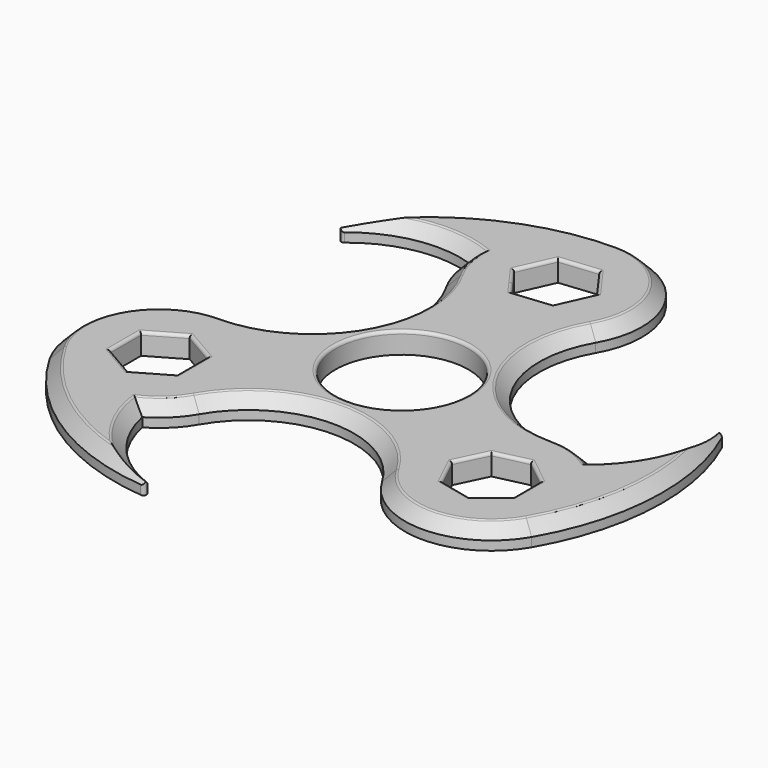
from build123d import *

# Parameters (mm, degrees)
F0_R     = 11
F1_DEPTH = 3.5
F2_SIZE  = 2
F3_R     = 0.5


with BuildPart() as f1:
    # F0 (on Top) → F1 (new body)
    with BuildSketch(Plane.XY):
        with BuildLine():
            ThreePointArc((26.50369074, -1.0794828604), (11.3807221264, 7.6517671396), (11.3807221264, 25.1142671396))
            ThreePointArc((11.3807221264, 25.1142671396), (11.3807221264, 39.4017671396), (-0.9926158302, 46.5455171396))
            ThreePointArc((-0.9926158302, 46.5455171396), (-21.8494165238, 40.7780010616), (-36.7798490863, 25.1142671396))
            ThreePointArc((-36.7798490863, 25.1142671396), (-27.219118588, 32.264950132), (-15.2801158302, 32.2580171396))
            ThreePointArc((-15.2801158302, 32.2580171396), (-14.7932810733, 28.5601400327), (-13.3659537868, 25.1142671396))
            ThreePointArc((-13.3659537868, 25.1142671396), (-13.3659537868, 7.6517671396), (-28.4889224003, -1.0794828604))
            ThreePointArc((-28.4889224003, -1.0794828604), (-40.8622603569, -8.2232328604), (-40.8622603569, -22.5107328604))
            ThreePointArc((-40.8622603569, -22.5107328604), (-25.4390445698, -37.6894940637), (-4.408636794, -42.7877609913))
            ThreePointArc((-4.408636794, -42.7877609913), (-15.3816751689, -38.0832669973), (-21.3451724003, -27.740320817))
            ThreePointArc((-21.3451724003, -27.740320817), (-18.3861342641, -25.4697709966), (-16.1155844438, -22.5107328604))
            ThreePointArc((-16.1155844438, -22.5107328604), (-0.9926158302, -13.7794828604), (14.1303527834, -22.5107328604))
            ThreePointArc((14.1303527834, -22.5107328604), (26.50369074, -29.6544828604), (38.8770286965, -22.5107328604))
            ThreePointArc((38.8770286965, -22.5107328604), (44.310613603, -1.5644555791), (38.2106383897, 19.1975452705))
            ThreePointArc((38.2106383897, 19.1975452705), (39.6229462664, 7.3423682841), (33.64744074, -2.9936449038))
            ThreePointArc((33.64744074, -2.9936449038), (30.2015678469, -1.5663176173), (26.50369074, -1.0794828604))
        make_face()
        Polygon((-28.4889224003, -21.7169828604), (-33.9881837144, -18.5419828604), (-33.9881837144, -12.1919828604), (-28.4889224003, -9.0169828604), (-22.9896610863, -12.1919828604), (-22.9896610863, -18.5419828604), align=None, mode=Mode.SUBTRACT)
        with Locations((-0.9926158302, 0.5080171396)):
            Circle(F0_R, mode=Mode.SUBTRACT)
        Polygon((27.9530368024, -9.0169828604), (32.3719731429, -12.5409669992), (32.3719731429, -18.1929987216), (27.9530368024, -21.7169828604), (22.4427133156, -20.4592874828), (19.9903886582, -15.3669828604), (22.4427133156, -10.274678238), align=None, mode=Mode.SUBTRACT)
        Polygon((5.3248489637, 32.8999973403), (2.7220877293, 27.1079222409), (-3.5953770646, 26.4659420402), (-5.1476309604, 28.6179993288), (-7.3100806241, 31.6160369389), (-4.7073193896, 37.4081120383), (1.6101454042, 38.050092239), align=None, mode=Mode.SUBTRACT)
    extrude(amount=F1_DEPTH)

    # F2
    f2_edges = [f1.edges().sort_by_distance(p)[0] for p in [
        (-25.439045, -37.689494, 3.5),
        (-0.992616, -13.779483, 3.5),
        (26.503691, -29.654483, 3.5),
        (-15.381675, -38.083267, 3.5),
        (-27.219119, 32.26495, 3.5),
        (-21.849417, 40.778001, 3.5),
        (39.622946, 7.342368, 3.5),
    ]]
    chamfer(f2_edges, length=F2_SIZE)

    # F3
    f3_edges = [f1.edges().sort_by_distance(p)[0] for p in [
        (-13.019073, 29.738695, 3.5),
        (-20.068226, 35.195043, 3.5),
        (-11.633903, 6.651767, 3.5),
        (-14.980726, 41.921469, 3.5),
        (-39.13021, -9.223233, 3.5),
        (9.648671, 38.401767, 3.5),
        (-29.863662, -32.312768, 3.5),
        (9.648671, 6.651767, 3.5),
        (-21.494657, -33.355459, 3.5),
        (30.335123, -3.692104, 3.5),
        (-20.293897, -24.522539, 3.5),
        (38.585035, -0.315533, 3.5),
        (-0.992616, -11.779483, 3.5),
        (41.866541, -8.08465, 3.5),
        (26.503691, -27.654483, 3.5),
        (-31.238553, -20.129483, 3.5),
        (-33.988184, -15.366983, 3.5),
        (-31.238553, -10.604483, 3.5),
        (-25.739292, -10.604483, 3.5),
        (-22.989661, -15.366983, 3.5),
        (-25.739292, -20.129483, 3.5),
        (-11.992616, 0.508017, 3.5),
        (30.162505, -19.954991, 3.5),
        (25.197875, -21.088135, 3.5),
        (21.216551, -17.913135, 3.5),
        (21.216551, -12.820831, 3.5),
        (25.197875, -9.645831, 3.5),
        (30.162505, -10.778975, 3.5),
        (32.371973, -15.366983, 3.5),
        (3.467497, 35.475045, 3.5),
        (4.023468, 30.00396, 3.5),
        (-0.436645, 26.786932, 3.5),
        (-5.452729, 29.040989, 3.5),
        (-6.0087, 34.512074, 3.5),
        (-1.548587, 37.729102, 3.5),
        (-36.779849, 25.114267, 0.75),
        (-4.408637, -42.787761, 0.75),
        (38.210638, 19.197545, 0.75),
    ]]
    fillet(f3_edges, radius=F3_R)


solid = f1.part
